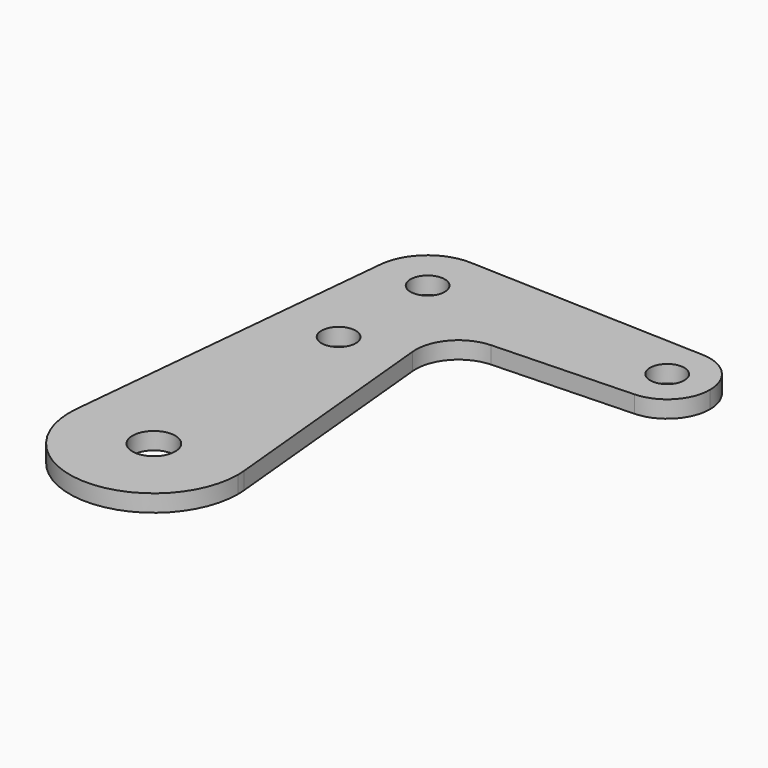
from build123d import *

# Parameters (mm, degrees)
F0_R     = 3.175
F0_R_2   = 3.96875
F1_DEPTH = 3.175
F2_R     = 7.9375


with BuildPart() as f1:
    # F0 (on Top) → F1 (new body)
    with BuildSketch(Plane.XY):
        with BuildLine():
            ThreePointArc((0.2834821429, -7.9324362036), (5.7120069047, -5.5115227815), (7.9375, 0))
            ThreePointArc((7.9375, 0), (5.7120069047, 5.5115227815), (0.2834821429, 7.9324362036))
            ThreePointArc((0.2834821429, 7.9324362036), (-7.9375, 0), (0.2834821429, -7.9324362036))
        make_face()
        Circle(F0_R, mode=Mode.SUBTRACT)
        with BuildLine():
            ThreePointArc((0.2834821429, -7.9324362036), (-7.9375, 0), (0.2834821429, 7.9324362036))
            Line((0.2834821429, 7.9324362036), (-44.1098214286, 9.5189234444))
            ThreePointArc((-44.1098214286, 9.5189234444), (-37.9213417577, 6.9355783144), (-34.968992794, 0.9144))
            Line((-34.968992794, 0.9144), (-33.9975998101, -9.157542126))
            Line((-33.9975998101, -9.157542126), (0.2834821429, -7.9324362036))
        make_face()
        with BuildLine():
            ThreePointArc((-34.968992794, 0.9144), (-37.9213417577, 6.9355783144), (-44.1098214286, 9.5189234444))
            ThreePointArc((-44.1098214286, 9.5189234444), (-50.7267940031, 7.1643200684), (-53.931007206, 0.9144))
            ThreePointArc((-53.931007206, 0.9144), (-51.3855783284, -6.5286582275), (-44.1098214693, -9.5189234458))
            ThreePointArc((-44.1098214693, -9.5189234458), (-37.5955917285, -6.6138273524), (-34.925, 0))
            ThreePointArc((-34.925, 0), (-34.9360045555, 0.4577288296), (-34.968992794, 0.9144))
        make_face()
        with Locations((-44.45, 0)):
            Circle(F0_R, mode=Mode.SUBTRACT)
        with BuildLine():
            Line((-28.9011481822, -62.000384), (-33.9975998101, -9.157542126))
            Line((-33.9975998101, -9.157542126), (-44.1098214693, -9.5189234458))
            ThreePointArc((-44.1098214693, -9.5189234458), (-51.3855783284, -6.5286582275), (-53.931007206, 0.9144))
            Line((-53.931007206, 0.9144), (-59.9988518178, -62.000384))
            ThreePointArc((-59.9988518178, -62.000384), (-44.45, -47.879), (-28.9011481822, -62.000384))
        make_face()
        with Locations((-44.45, -20.6502)):
            Circle(F0_R, mode=Mode.SUBTRACT)
        with BuildLine():
            Line((-44.1098214693, -9.5189234458), (-33.9975998101, -9.157542126))
            Line((-33.9975998101, -9.157542126), (-34.968992794, 0.9144))
            ThreePointArc((-34.968992794, 0.9144), (-34.9360045555, 0.4577288296), (-34.925, 0))
            ThreePointArc((-34.925, 0), (-37.5955917285, -6.6138273524), (-44.1098214693, -9.5189234458))
        make_face()
        with BuildLine():
            ThreePointArc((-28.829, -63.5), (-28.847047471, -62.7493247194), (-28.9011481822, -62.000384))
            ThreePointArc((-28.9011481822, -62.000384), (-44.45, -47.879), (-59.9988518178, -62.000384))
            ThreePointArc((-59.9988518178, -62.000384), (-45.2006752806, -79.102952529), (-28.829, -63.5))
        make_face()
        with Locations((-44.45, -63.5)):
            Circle(F0_R_2, mode=Mode.SUBTRACT)
    extrude(amount=F1_DEPTH)

    # F2
    f2_edges = [f1.edges().sort_by_distance(p)[0] for p in [
        (-33.9976, -9.157542, 1.5875),
    ]]
    fillet(f2_edges, radius=F2_R)


solid = f1.part
